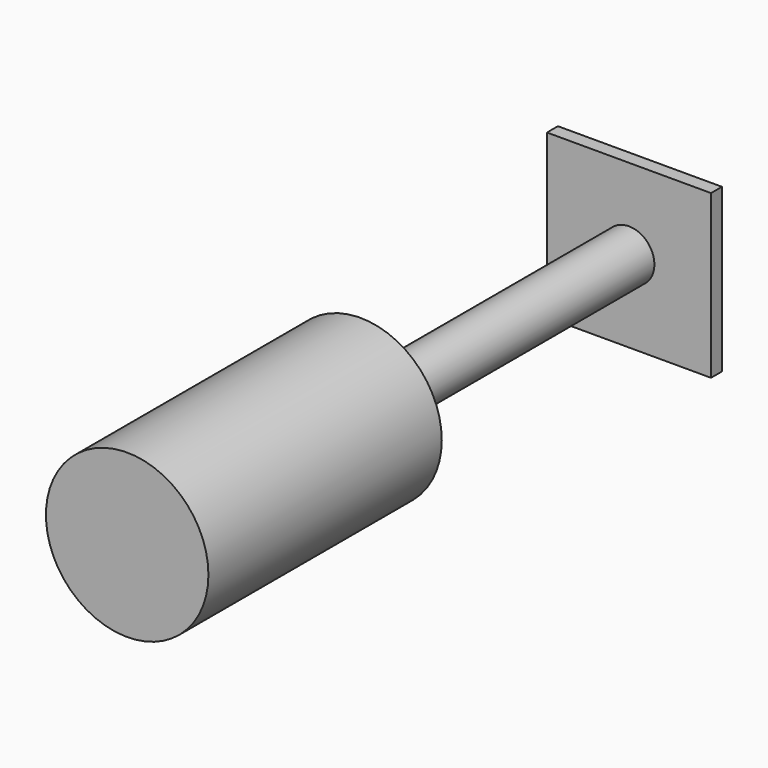
from build123d import *

# Parameters (mm, degrees)
F0_R     = 26.123678
F1_DEPTH = 93.77381
F2_R     = 8.171962
F3_DEPTH = 107.8945
F4_W     = 52.7304
F4_H     = 52.288964
F5_DEPTH = 4.39529


with BuildPart() as f1:
    # F0 (on Front) → F1 (new body)
    with BuildSketch(Plane.XZ):
        Circle(F0_R)
    extrude(amount=F1_DEPTH)

    # F2 (on face) → F3 (join)
    with BuildSketch(Plane(origin=(0, 0, 0), x_dir=(-1, 0, 0), z_dir=(0, 1, 0))):
        Circle(F2_R)
    extrude(amount=F3_DEPTH)

    # F4 (on face) → F5 (join)
    with BuildSketch(Plane(origin=(0, 107.8945, 0), x_dir=(-1, 0, 0), z_dir=(0, 1, 0))):
        Rectangle(F4_W, F4_H)
    extrude(amount=F5_DEPTH)


solid = f1.part
